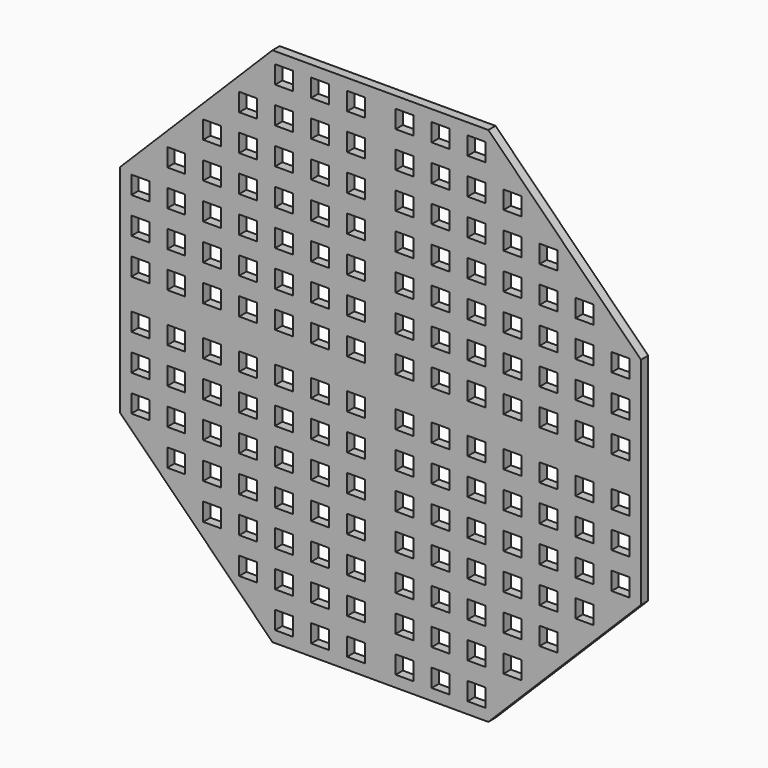
from build123d import *

# Parameters (mm, degrees)
F0_W     = 6.35
F0_H     = 6.35
F1_DEPTH = 3.175


with BuildPart() as f1:
    # F0 (on Front) → F1 (new body)
    with BuildSketch(Plane.XZ):
        Polygon((95.123771, -38.1), (95.123771, 38.1), (41.242234, 91.981537), (-34.957766, 91.981537), (-88.839302, 38.1), (-88.839302, -38.1), (-34.957766, -91.981537), (41.242234, -91.981537), align=None)
        with Locations((-43.525702, -72.067937)):
            Rectangle(F0_W, F0_H, mode=Mode.SUBTRACT)
        with Locations((-68.925702, -46.667937)):
            Rectangle(F0_W, F0_H, mode=Mode.SUBTRACT)
        with Locations((-56.225702, -59.367937)):
            Rectangle(F0_W, F0_H, mode=Mode.SUBTRACT)
        with Locations((-43.525702, -59.367937)):
            Rectangle(F0_W, F0_H, mode=Mode.SUBTRACT)
        with Locations((-56.225702, -46.667937)):
            Rectangle(F0_W, F0_H, mode=Mode.SUBTRACT)
        with Locations((-43.525702, -46.667937)):
            Rectangle(F0_W, F0_H, mode=Mode.SUBTRACT)
        with Locations((-30.825702, -84.767937)):
            Rectangle(F0_W, F0_H, mode=Mode.SUBTRACT)
        with Locations((-30.825702, -72.067937)):
            Rectangle(F0_W, F0_H, mode=Mode.SUBTRACT)
        with Locations((-18.125702, -84.767937)):
            Rectangle(F0_W, F0_H, mode=Mode.SUBTRACT)
        with Locations((-5.425702, -84.767937)):
            Rectangle(F0_W, F0_H, mode=Mode.SUBTRACT)
        with Locations((-18.125702, -72.067937)):
            Rectangle(F0_W, F0_H, mode=Mode.SUBTRACT)
        with Locations((-5.425702, -72.067937)):
            Rectangle(F0_W, F0_H, mode=Mode.SUBTRACT)
        with Locations((-30.825702, -59.367937)):
            Rectangle(F0_W, F0_H, mode=Mode.SUBTRACT)
        with Locations((-30.825702, -46.667937)):
            Rectangle(F0_W, F0_H, mode=Mode.SUBTRACT)
        with Locations((-18.125702, -59.367937)):
            Rectangle(F0_W, F0_H, mode=Mode.SUBTRACT)
        with Locations((-5.425702, -59.367937)):
            Rectangle(F0_W, F0_H, mode=Mode.SUBTRACT)
        with Locations((-18.125702, -46.667937)):
            Rectangle(F0_W, F0_H, mode=Mode.SUBTRACT)
        with Locations((-5.425702, -46.667937)):
            Rectangle(F0_W, F0_H, mode=Mode.SUBTRACT)
        with Locations((-81.625702, -33.967937)):
            Rectangle(F0_W, F0_H, mode=Mode.SUBTRACT)
        with Locations((-68.925702, -33.967937)):
            Rectangle(F0_W, F0_H, mode=Mode.SUBTRACT)
        with Locations((-56.225702, -33.967937)):
            Rectangle(F0_W, F0_H, mode=Mode.SUBTRACT)
        with Locations((-43.525702, -33.967937)):
            Rectangle(F0_W, F0_H, mode=Mode.SUBTRACT)
        with Locations((-81.625702, -21.267937)):
            Rectangle(F0_W, F0_H, mode=Mode.SUBTRACT)
        with Locations((-68.925702, -21.267937)):
            Rectangle(F0_W, F0_H, mode=Mode.SUBTRACT)
        with Locations((-81.625702, -8.567937)):
            Rectangle(F0_W, F0_H, mode=Mode.SUBTRACT)
        with Locations((-68.925702, -8.567937)):
            Rectangle(F0_W, F0_H, mode=Mode.SUBTRACT)
        with Locations((-56.225702, -21.267937)):
            Rectangle(F0_W, F0_H, mode=Mode.SUBTRACT)
        with Locations((-43.525702, -21.267937)):
            Rectangle(F0_W, F0_H, mode=Mode.SUBTRACT)
        with Locations((-56.225702, -8.567937)):
            Rectangle(F0_W, F0_H, mode=Mode.SUBTRACT)
        with Locations((-43.525702, -8.567937)):
            Rectangle(F0_W, F0_H, mode=Mode.SUBTRACT)
        with Locations((-30.825702, -33.967937)):
            Rectangle(F0_W, F0_H, mode=Mode.SUBTRACT)
        with Locations((-18.125702, -33.967937)):
            Rectangle(F0_W, F0_H, mode=Mode.SUBTRACT)
        with Locations((-5.425702, -33.967937)):
            Rectangle(F0_W, F0_H, mode=Mode.SUBTRACT)
        with Locations((-30.825702, -21.267937)):
            Rectangle(F0_W, F0_H, mode=Mode.SUBTRACT)
        with Locations((-30.825702, -8.567937)):
            Rectangle(F0_W, F0_H, mode=Mode.SUBTRACT)
        with Locations((-18.125702, -21.267937)):
            Rectangle(F0_W, F0_H, mode=Mode.SUBTRACT)
        with Locations((-5.425702, -21.267937)):
            Rectangle(F0_W, F0_H, mode=Mode.SUBTRACT)
        with Locations((-18.125702, -8.567937)):
            Rectangle(F0_W, F0_H, mode=Mode.SUBTRACT)
        with Locations((-5.425702, -8.567937)):
            Rectangle(F0_W, F0_H, mode=Mode.SUBTRACT)
        with Locations((11.710171, -84.767937)):
            Rectangle(F0_W, F0_H, mode=Mode.SUBTRACT)
        with Locations((24.410171, -84.767937)):
            Rectangle(F0_W, F0_H, mode=Mode.SUBTRACT)
        with Locations((11.710171, -72.067937)):
            Rectangle(F0_W, F0_H, mode=Mode.SUBTRACT)
        with Locations((24.410171, -72.067937)):
            Rectangle(F0_W, F0_H, mode=Mode.SUBTRACT)
        with Locations((37.110171, -84.767937)):
            Rectangle(F0_W, F0_H, mode=Mode.SUBTRACT)
        with Locations((37.110171, -72.067937)):
            Rectangle(F0_W, F0_H, mode=Mode.SUBTRACT)
        with Locations((11.710171, -59.367937)):
            Rectangle(F0_W, F0_H, mode=Mode.SUBTRACT)
        with Locations((24.410171, -59.367937)):
            Rectangle(F0_W, F0_H, mode=Mode.SUBTRACT)
        with Locations((11.710171, -46.667937)):
            Rectangle(F0_W, F0_H, mode=Mode.SUBTRACT)
        with Locations((24.410171, -46.667937)):
            Rectangle(F0_W, F0_H, mode=Mode.SUBTRACT)
        with Locations((37.110171, -59.367937)):
            Rectangle(F0_W, F0_H, mode=Mode.SUBTRACT)
        with Locations((37.110171, -46.667937)):
            Rectangle(F0_W, F0_H, mode=Mode.SUBTRACT)
        with Locations((49.810171, -72.067937)):
            Rectangle(F0_W, F0_H, mode=Mode.SUBTRACT)
        with Locations((49.810171, -59.367937)):
            Rectangle(F0_W, F0_H, mode=Mode.SUBTRACT)
        with Locations((62.510171, -59.367937)):
            Rectangle(F0_W, F0_H, mode=Mode.SUBTRACT)
        with Locations((49.810171, -46.667937)):
            Rectangle(F0_W, F0_H, mode=Mode.SUBTRACT)
        with Locations((62.510171, -46.667937)):
            Rectangle(F0_W, F0_H, mode=Mode.SUBTRACT)
        with Locations((75.210171, -46.667937)):
            Rectangle(F0_W, F0_H, mode=Mode.SUBTRACT)
        with Locations((11.710171, -33.967937)):
            Rectangle(F0_W, F0_H, mode=Mode.SUBTRACT)
        with Locations((24.410171, -33.967937)):
            Rectangle(F0_W, F0_H, mode=Mode.SUBTRACT)
        with Locations((37.110171, -33.967937)):
            Rectangle(F0_W, F0_H, mode=Mode.SUBTRACT)
        with Locations((11.710171, -21.267937)):
            Rectangle(F0_W, F0_H, mode=Mode.SUBTRACT)
        with Locations((24.410171, -21.267937)):
            Rectangle(F0_W, F0_H, mode=Mode.SUBTRACT)
        with Locations((11.710171, -8.567937)):
            Rectangle(F0_W, F0_H, mode=Mode.SUBTRACT)
        with Locations((24.410171, -8.567937)):
            Rectangle(F0_W, F0_H, mode=Mode.SUBTRACT)
        with Locations((37.110171, -21.267937)):
            Rectangle(F0_W, F0_H, mode=Mode.SUBTRACT)
        with Locations((37.110171, -8.567937)):
            Rectangle(F0_W, F0_H, mode=Mode.SUBTRACT)
        with Locations((49.810171, -33.967937)):
            Rectangle(F0_W, F0_H, mode=Mode.SUBTRACT)
        with Locations((62.510171, -33.967937)):
            Rectangle(F0_W, F0_H, mode=Mode.SUBTRACT)
        with Locations((75.210171, -33.967937)):
            Rectangle(F0_W, F0_H, mode=Mode.SUBTRACT)
        with Locations((87.910171, -33.967937)):
            Rectangle(F0_W, F0_H, mode=Mode.SUBTRACT)
        with Locations((49.810171, -21.267937)):
            Rectangle(F0_W, F0_H, mode=Mode.SUBTRACT)
        with Locations((62.510171, -21.267937)):
            Rectangle(F0_W, F0_H, mode=Mode.SUBTRACT)
        with Locations((49.810171, -8.567937)):
            Rectangle(F0_W, F0_H, mode=Mode.SUBTRACT)
        with Locations((62.510171, -8.567937)):
            Rectangle(F0_W, F0_H, mode=Mode.SUBTRACT)
        with Locations((75.210171, -21.267937)):
            Rectangle(F0_W, F0_H, mode=Mode.SUBTRACT)
        with Locations((87.910171, -21.267937)):
            Rectangle(F0_W, F0_H, mode=Mode.SUBTRACT)
        with Locations((75.210171, -8.567937)):
            Rectangle(F0_W, F0_H, mode=Mode.SUBTRACT)
        with Locations((87.910171, -8.567937)):
            Rectangle(F0_W, F0_H, mode=Mode.SUBTRACT)
        with Locations((-81.625702, 8.567937)):
            Rectangle(F0_W, F0_H, mode=Mode.SUBTRACT)
        with Locations((-68.925702, 8.567937)):
            Rectangle(F0_W, F0_H, mode=Mode.SUBTRACT)
        with Locations((-81.625702, 21.267937)):
            Rectangle(F0_W, F0_H, mode=Mode.SUBTRACT)
        with Locations((-68.925702, 21.267937)):
            Rectangle(F0_W, F0_H, mode=Mode.SUBTRACT)
        with Locations((-56.225702, 8.567937)):
            Rectangle(F0_W, F0_H, mode=Mode.SUBTRACT)
        with Locations((-43.525702, 8.567937)):
            Rectangle(F0_W, F0_H, mode=Mode.SUBTRACT)
        with Locations((-56.225702, 21.267937)):
            Rectangle(F0_W, F0_H, mode=Mode.SUBTRACT)
        with Locations((-43.525702, 21.267937)):
            Rectangle(F0_W, F0_H, mode=Mode.SUBTRACT)
        with Locations((-81.625702, 33.967937)):
            Rectangle(F0_W, F0_H, mode=Mode.SUBTRACT)
        with Locations((-68.925702, 33.967937)):
            Rectangle(F0_W, F0_H, mode=Mode.SUBTRACT)
        with Locations((-56.225702, 33.967937)):
            Rectangle(F0_W, F0_H, mode=Mode.SUBTRACT)
        with Locations((-43.525702, 33.967937)):
            Rectangle(F0_W, F0_H, mode=Mode.SUBTRACT)
        with Locations((-30.825702, 8.567937)):
            Rectangle(F0_W, F0_H, mode=Mode.SUBTRACT)
        with Locations((-30.825702, 21.267937)):
            Rectangle(F0_W, F0_H, mode=Mode.SUBTRACT)
        with Locations((-18.125702, 8.567937)):
            Rectangle(F0_W, F0_H, mode=Mode.SUBTRACT)
        with Locations((-5.425702, 8.567937)):
            Rectangle(F0_W, F0_H, mode=Mode.SUBTRACT)
        with Locations((-18.125702, 21.267937)):
            Rectangle(F0_W, F0_H, mode=Mode.SUBTRACT)
        with Locations((-5.425702, 21.267937)):
            Rectangle(F0_W, F0_H, mode=Mode.SUBTRACT)
        with Locations((-30.825702, 33.967937)):
            Rectangle(F0_W, F0_H, mode=Mode.SUBTRACT)
        with Locations((-18.125702, 33.967937)):
            Rectangle(F0_W, F0_H, mode=Mode.SUBTRACT)
        with Locations((-5.425702, 33.967937)):
            Rectangle(F0_W, F0_H, mode=Mode.SUBTRACT)
        with Locations((-68.925702, 46.667937)):
            Rectangle(F0_W, F0_H, mode=Mode.SUBTRACT)
        with Locations((-56.225702, 46.667937)):
            Rectangle(F0_W, F0_H, mode=Mode.SUBTRACT)
        with Locations((-43.525702, 46.667937)):
            Rectangle(F0_W, F0_H, mode=Mode.SUBTRACT)
        with Locations((-56.225702, 59.367937)):
            Rectangle(F0_W, F0_H, mode=Mode.SUBTRACT)
        with Locations((-43.525702, 59.367937)):
            Rectangle(F0_W, F0_H, mode=Mode.SUBTRACT)
        with Locations((-43.525702, 72.067937)):
            Rectangle(F0_W, F0_H, mode=Mode.SUBTRACT)
        with Locations((-30.825702, 46.667937)):
            Rectangle(F0_W, F0_H, mode=Mode.SUBTRACT)
        with Locations((-30.825702, 59.367937)):
            Rectangle(F0_W, F0_H, mode=Mode.SUBTRACT)
        with Locations((-18.125702, 46.667937)):
            Rectangle(F0_W, F0_H, mode=Mode.SUBTRACT)
        with Locations((-5.425702, 46.667937)):
            Rectangle(F0_W, F0_H, mode=Mode.SUBTRACT)
        with Locations((-18.125702, 59.367937)):
            Rectangle(F0_W, F0_H, mode=Mode.SUBTRACT)
        with Locations((-5.425702, 59.367937)):
            Rectangle(F0_W, F0_H, mode=Mode.SUBTRACT)
        with Locations((-30.825702, 72.067937)):
            Rectangle(F0_W, F0_H, mode=Mode.SUBTRACT)
        with Locations((-30.825702, 84.767937)):
            Rectangle(F0_W, F0_H, mode=Mode.SUBTRACT)
        with Locations((-18.125702, 72.067937)):
            Rectangle(F0_W, F0_H, mode=Mode.SUBTRACT)
        with Locations((-5.425702, 72.067937)):
            Rectangle(F0_W, F0_H, mode=Mode.SUBTRACT)
        with Locations((-18.125702, 84.767937)):
            Rectangle(F0_W, F0_H, mode=Mode.SUBTRACT)
        with Locations((-5.425702, 84.767937)):
            Rectangle(F0_W, F0_H, mode=Mode.SUBTRACT)
        with Locations((11.710171, 8.567937)):
            Rectangle(F0_W, F0_H, mode=Mode.SUBTRACT)
        with Locations((24.410171, 8.567937)):
            Rectangle(F0_W, F0_H, mode=Mode.SUBTRACT)
        with Locations((11.710171, 21.267937)):
            Rectangle(F0_W, F0_H, mode=Mode.SUBTRACT)
        with Locations((24.410171, 21.267937)):
            Rectangle(F0_W, F0_H, mode=Mode.SUBTRACT)
        with Locations((37.110171, 8.567937)):
            Rectangle(F0_W, F0_H, mode=Mode.SUBTRACT)
        with Locations((37.110171, 21.267937)):
            Rectangle(F0_W, F0_H, mode=Mode.SUBTRACT)
        with Locations((11.710171, 33.967937)):
            Rectangle(F0_W, F0_H, mode=Mode.SUBTRACT)
        with Locations((24.410171, 33.967937)):
            Rectangle(F0_W, F0_H, mode=Mode.SUBTRACT)
        with Locations((37.110171, 33.967937)):
            Rectangle(F0_W, F0_H, mode=Mode.SUBTRACT)
        with Locations((49.810171, 8.567937)):
            Rectangle(F0_W, F0_H, mode=Mode.SUBTRACT)
        with Locations((62.510171, 8.567937)):
            Rectangle(F0_W, F0_H, mode=Mode.SUBTRACT)
        with Locations((49.810171, 21.267937)):
            Rectangle(F0_W, F0_H, mode=Mode.SUBTRACT)
        with Locations((62.510171, 21.267937)):
            Rectangle(F0_W, F0_H, mode=Mode.SUBTRACT)
        with Locations((75.210171, 8.567937)):
            Rectangle(F0_W, F0_H, mode=Mode.SUBTRACT)
        with Locations((87.910171, 8.567937)):
            Rectangle(F0_W, F0_H, mode=Mode.SUBTRACT)
        with Locations((75.210171, 21.267937)):
            Rectangle(F0_W, F0_H, mode=Mode.SUBTRACT)
        with Locations((87.910171, 21.267937)):
            Rectangle(F0_W, F0_H, mode=Mode.SUBTRACT)
        with Locations((49.810171, 33.967937)):
            Rectangle(F0_W, F0_H, mode=Mode.SUBTRACT)
        with Locations((62.510171, 33.967937)):
            Rectangle(F0_W, F0_H, mode=Mode.SUBTRACT)
        with Locations((75.210171, 33.967937)):
            Rectangle(F0_W, F0_H, mode=Mode.SUBTRACT)
        with Locations((87.910171, 33.967937)):
            Rectangle(F0_W, F0_H, mode=Mode.SUBTRACT)
        with Locations((11.710171, 46.667937)):
            Rectangle(F0_W, F0_H, mode=Mode.SUBTRACT)
        with Locations((24.410171, 46.667937)):
            Rectangle(F0_W, F0_H, mode=Mode.SUBTRACT)
        with Locations((11.710171, 59.367937)):
            Rectangle(F0_W, F0_H, mode=Mode.SUBTRACT)
        with Locations((24.410171, 59.367937)):
            Rectangle(F0_W, F0_H, mode=Mode.SUBTRACT)
        with Locations((37.110171, 46.667937)):
            Rectangle(F0_W, F0_H, mode=Mode.SUBTRACT)
        with Locations((37.110171, 59.367937)):
            Rectangle(F0_W, F0_H, mode=Mode.SUBTRACT)
        with Locations((11.710171, 72.067937)):
            Rectangle(F0_W, F0_H, mode=Mode.SUBTRACT)
        with Locations((24.410171, 72.067937)):
            Rectangle(F0_W, F0_H, mode=Mode.SUBTRACT)
        with Locations((11.710171, 84.767937)):
            Rectangle(F0_W, F0_H, mode=Mode.SUBTRACT)
        with Locations((24.410171, 84.767937)):
            Rectangle(F0_W, F0_H, mode=Mode.SUBTRACT)
        with Locations((37.110171, 72.067937)):
            Rectangle(F0_W, F0_H, mode=Mode.SUBTRACT)
        with Locations((37.110171, 84.767937)):
            Rectangle(F0_W, F0_H, mode=Mode.SUBTRACT)
        with Locations((49.810171, 46.667937)):
            Rectangle(F0_W, F0_H, mode=Mode.SUBTRACT)
        with Locations((62.510171, 46.667937)):
            Rectangle(F0_W, F0_H, mode=Mode.SUBTRACT)
        with Locations((49.810171, 59.367937)):
            Rectangle(F0_W, F0_H, mode=Mode.SUBTRACT)
        with Locations((62.510171, 59.367937)):
            Rectangle(F0_W, F0_H, mode=Mode.SUBTRACT)
        with Locations((75.210171, 46.667937)):
            Rectangle(F0_W, F0_H, mode=Mode.SUBTRACT)
        with Locations((49.810171, 72.067937)):
            Rectangle(F0_W, F0_H, mode=Mode.SUBTRACT)
    extrude(amount=F1_DEPTH)


solid = f1.part
